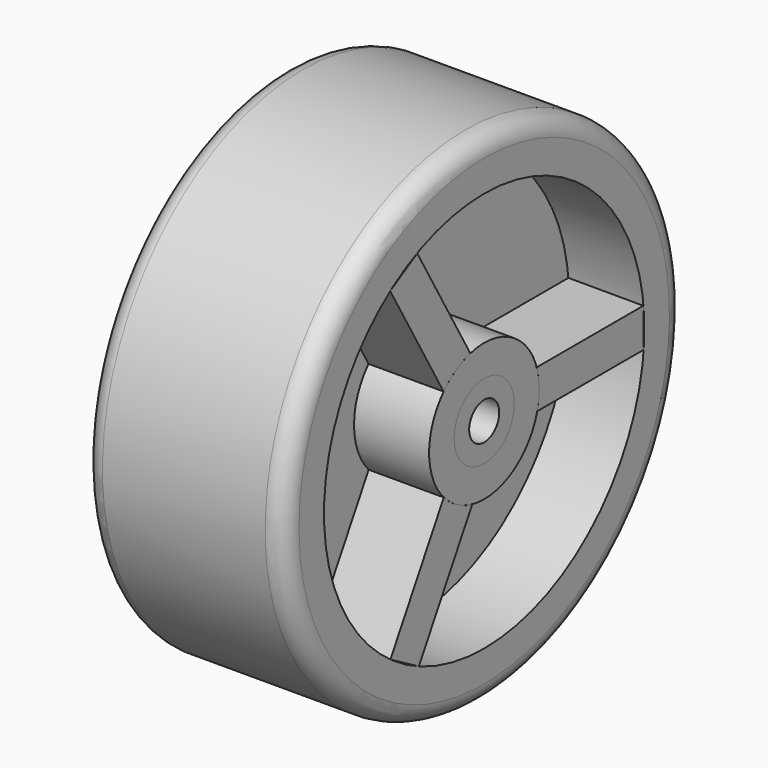
from build123d import *

# Parameters (mm, degrees)
F0_W       = 4
F0_H       = 1.5
F0_W_2     = 6
F0_H_2     = 2.5
F3_DEPTH   = 4
F4_R       = 1.5666851265
F5_DEPTH   = 1
F6_R       = 3
F7_DEPTH   = 6
F8_R       = 5.5
F8_R_2     = 3
F9_DEPTH   = 6
F3_FACE1_W = 4
F3_FACE1_H = 10.6678811696
F11_DEPTH  = 6
F12_DEPTH  = 6


with BuildPart() as f1:
    # F0 (on Front) → F1 (revolve)
    with BuildSketch(Plane.XZ):
        with BuildLine():
            Line((0, 2.5), (0, 0))
            Line((0, 0), (6, 0))
            Line((6, 0), (10, 0))
            Line((10, 0), (16, 0))
            Line((16, 0), (16, 2.5))
            ThreePointArc((16, 2.5), (15.5606601718, 3.5606601718), (14.5, 4))
            Line((14.5, 4), (1.5, 4))
            ThreePointArc((1.5, 4), (0.4393398282, 3.5606601718), (0, 2.5))
        make_face()
        with Locations((8, -13.75)):
            Rectangle(F0_W, F0_H)
        with Locations((3, -13.75)):
            Rectangle(F0_W_2, F0_H)
        with Locations((8, -11.75)):
            Rectangle(F0_W, F0_H_2)
        with Locations((13, -13.75)):
            Rectangle(F0_W_2, F0_H)
    revolve(axis=Axis((8, 0, -16), (1, 0, 0)))

    # F2 (on face) → F3 (join)
    with BuildSketch(Plane(origin=(6, 0, 0), x_dir=(0, -1, 0), z_dir=(-1, 0, 0))):
        with BuildLine():
            Line((6.6908253366, -1.4861596642), (1.3844372123, -10.6770935002))
            ThreePointArc((1.3844372123, -10.6770935002), (2.8339033039, -11.2862974145), (4.051778006, -12.2807131073))
            Line((4.051778006, -12.2807131073), (9.3857185908, -3.0420570099))
            Line((9.3857185908, -3.0420570099), (6.6908253366, -1.4861596642))
        make_face()
        with BuildLine():
            ThreePointArc((4.037854872, -19.7343979479), (2.741097896, -20.7682682731), (1.1951079301, -21.36858613))
            Line((1.1951079301, -21.36858613), (6.5290485149, -30.6072422274))
            Line((6.5290485149, -30.6072422274), (9.3687329614, -28.9677496478))
            Line((9.3687329614, -28.9677496478), (4.037854872, -19.7343979479))
        make_face()
        with BuildLine():
            ThreePointArc((-5.3019908569, -17.4624954541), (-5.4991378368, -15.9026190397), (-5.246885936, -14.3507007627))
            Line((-5.246885936, -14.3507007627), (-15.9147671056, -14.3507007627))
            Line((-15.9147671056, -14.3507007627), (-15.9147671056, -17.4624954541))
            Line((-15.9147671056, -17.4624954541), (-5.3019908569, -17.4624954541))
        make_face()
    extrude(amount=-F3_DEPTH)

    # F4 (on Right) → F5 (join)
    with BuildSketch(Plane.YZ):
        with Locations((0, -15.8851090819)):
            Circle(F4_R)
    extrude(amount=F5_DEPTH)

    # F6 (on face) → F7 (join)
    with BuildSketch(Plane(origin=(6, 0, 0), x_dir=(0, -1, 0), z_dir=(-1, 0, 0))):
        with BuildLine():
            ThreePointArc((4.037854872, -19.7343979479), (5.1214354333, -18.0052179687), (5.5, -16))
            ThreePointArc((5.5, -16), (5.1251721451, -14.0043521143), (4.051778006, -12.2807131073))
            ThreePointArc((4.051778006, -12.2807131073), (2.8339033039, -11.2862974145), (1.3844372123, -10.6770935002))
            ThreePointArc((1.3844372123, -10.6770935002), (-2.665234533, -11.1889164542), (-5.246885936, -14.3507007627))
            ThreePointArc((-5.246885936, -14.3507007627), (-5.4991378368, -15.9026190397), (-5.3019908569, -17.4624954541))
            ThreePointArc((-5.3019908569, -17.4624954541), (-2.8339033039, -20.7137025855), (1.1951079301, -21.36858613))
            ThreePointArc((1.1951079301, -21.36858613), (2.741097896, -20.7682682731), (4.037854872, -19.7343979479))
        make_face()
        with Locations((0, -16)):
            Circle(F6_R, mode=Mode.SUBTRACT)
    extrude(amount=F7_DEPTH)

    # F8 (on face) → F9 (join)
    with BuildSketch(Plane.YZ.offset(10)):
        with Locations((0, -16)):
            Circle(F8_R)
        with Locations((0, -16)):
            Circle(F8_R_2, mode=Mode.SUBTRACT)
    extrude(amount=F9_DEPTH)


with BuildPart() as f10:
    # F3_face1 (on face) → F10 (revolve)
    with BuildSketch(Plane(origin=(8, -6.7187482984, -7.6613850586), x_dir=(1, 0, 0), z_dir=(0, -0.8660254038, -0.5))):
        Rectangle(F3_FACE1_W, F3_FACE1_H)
    revolve(axis=Axis((10, 0, -16), (-1, 0, 0)))


with BuildPart() as f11:
    # F11 (new): faces of the model
    f11_faces = [f1.part.faces().sort_by_distance(p)[0] for p in [
        (6, 10.6696132386, -15.9052587497),
        (6, -5.4168549489, -6.8072145119),
        (6, -5.324286083, -25.2418602225),
    ]]
    extrude(f11_faces, amount=F11_DEPTH)


with BuildPart() as f12:
    # F12 (new): faces of the model
    f12_faces = [f1.part.faces().sort_by_distance(p)[0] for p in [
        (10, -5.4168549489, -6.8072145119),
        (10, -5.324286083, -25.2418602225),
        (10, 10.6696132386, -15.9052587497),
    ]]
    extrude(f12_faces, amount=F12_DEPTH)


solid = Compound([f1.part, f10.part, f11.part, f12.part])
